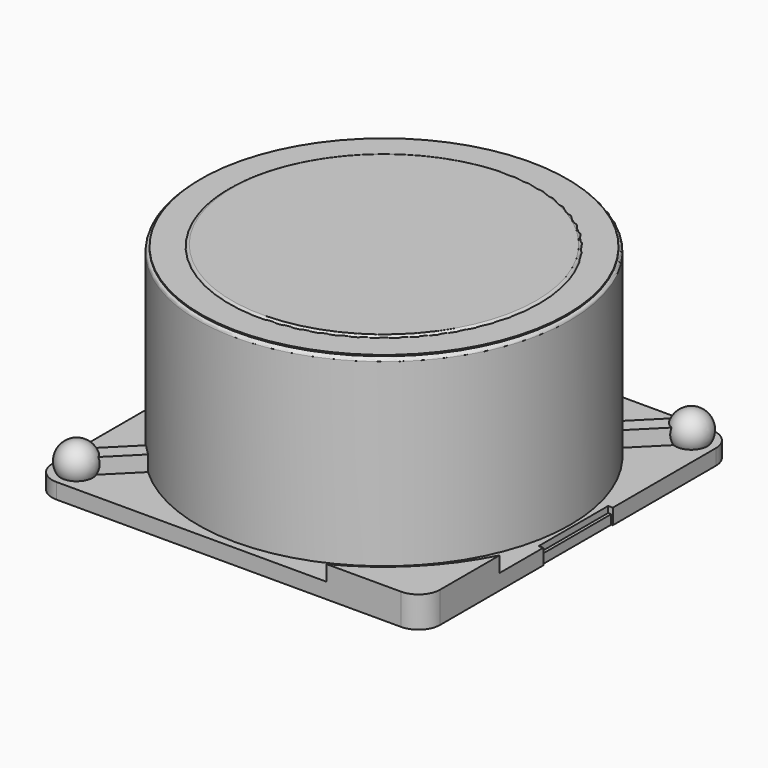
from build123d import *

# Parameters (mm, degrees)
BOX003_W               = 15.5
BOX003_H               = 0.5
BOX003_DEPTH           = 0.5
BOX003_PLACEMENT_ANGLE = 45
BOX005_W               = 0.9
BOX005_H               = 2.8
BOX005_DEPTH           = 0.3
BOX007_W               = 0.9
BOX007_H               = 2.8
BOX007_DEPTH           = 0.3
CYLINDER_R             = 6
CYLINDER_DEPTH         = 6.4
FILLET_R               = 0.1
CYLINDER001_R          = 5
CYLINDER001_DEPTH      = 6.5
FILLET001_R            = 0.1
CYLINDER004_R          = 5.9
CYLINDER004_DEPTH      = 0.3
BOX006_W               = 0.2
BOX006_H               = 2.8
BOX006_DEPTH           = 1
BOX004_W               = 0.2
BOX004_H               = 2.8
BOX004_DEPTH           = 1
BOX002_W               = 23
BOX002_H               = 6
BOX002_DEPTH           = 2
BOX002_PLACEMENT_ANGLE = 45
BOX001_W               = 15
BOX001_H               = 10
BOX001_DEPTH           = 5
BOX001_PLACEMENT_ANGLE = 45
CYLINDER003_R          = 6.5
CYLINDER003_DEPTH      = 2.4
BOX_W                  = 15
BOX_H                  = 7
BOX_DEPTH              = 5
BOX_PLACEMENT_ANGLE    = 45
CYLINDER002_R          = 7
CYLINDER002_DEPTH      = 2.4
PAD_DEPTH              = 1


with BuildPart() as obj1:
    # Sphere → Sphere (revolve)
    with BuildSketch(Plane(origin=(5.5, 5.5, 0.8), x_dir=(1, 0, 0), z_dir=(0, -1, 0))):
        with BuildLine():
            ThreePointArc((0, -0.6), (0.6, 0), (0, 0.6))
            Line((0, 0.6), (0, -0.6))
        make_face()
    revolve(axis=Axis((5.5, 5.5, 0.8), (0, 0, 1)))


with BuildPart() as obj2:
    # Sphere001 → Sphere001 (revolve)
    with BuildSketch(Plane(origin=(-5.5, -5.5, 0.8), x_dir=(1, 0, 0), z_dir=(0, -1, 0))):
        with BuildLine():
            ThreePointArc((0, -0.6), (0.6, 0), (0, 0.6))
            Line((0, 0.6), (0, -0.6))
        make_face()
    revolve(axis=Axis((-5.5, -5.5, 0.8), (0, 0, 1)))


with BuildPart() as kub003:
    # Box003 → Box003 (new body)
    with BuildSketch(Plane.XY):
        with Locations((7.75, 0.25)):
            Rectangle(BOX003_W, BOX003_H)
    extrude(amount=BOX003_DEPTH)


with BuildPart() as kub003_1:
    # Box003 placement: moved
    add(kub003.part.moved(Location((-5.2, -5.5, 0.5))).rotate(Axis((-5.2, -5.5, 0.5), (0, 0, 1)), BOX003_PLACEMENT_ANGLE))


with BuildPart() as kub005:
    # Box005 → Box005 (new body)
    with BuildSketch(Plane(origin=(5.3, -1.4, 0), x_dir=(1, 0, 0), z_dir=(0, 0, 1))):
        with Locations((0.45, 1.4)):
            Rectangle(BOX005_W, BOX005_H)
    extrude(amount=BOX005_DEPTH)


with BuildPart() as kub007:
    # Box007 → Box007 (new body)
    with BuildSketch(Plane(origin=(-6.2, -1.4, 0), x_dir=(1, 0, 0), z_dir=(0, 0, 1))):
        with Locations((0.45, 1.4)):
            Rectangle(BOX007_W, BOX007_H)
    extrude(amount=BOX007_DEPTH)


with BuildPart() as fillet_body:
    # Cylinder → Cylinder (new body)
    with BuildSketch(Plane.XY):
        Circle(CYLINDER_R)
    extrude(amount=CYLINDER_DEPTH)

    # Fillet
    fillet_edges = [fillet_body.edges().sort_by_distance(p)[0] for p in [
        (-6, 0, 6.4),
    ]]
    fillet(fillet_edges, radius=FILLET_R)


with BuildPart() as fillet001:
    # Cylinder001 → Cylinder001 (new body)
    with BuildSketch(Plane.XY):
        Circle(CYLINDER001_R)
    extrude(amount=CYLINDER001_DEPTH)

    # Fillet001
    fillet001_edges = [fillet001.edges().sort_by_distance(p)[0] for p in [
        (-5, 0, 6.5),
    ]]
    fillet(fillet001_edges, radius=FILLET001_R)


with BuildPart() as cylinder004:
    # Cylinder004 → Cylinder004 (new body)
    with BuildSketch(Plane.XY.offset(6.14)):
        Circle(CYLINDER004_R)
    extrude(amount=CYLINDER004_DEPTH)


with BuildPart() as kub006:
    # Box006 → Box006 (new body)
    with BuildSketch(Plane(origin=(-6.3, -1.4, 0), x_dir=(1, 0, 0), z_dir=(0, 0, 1))):
        with Locations((0.1, 1.4)):
            Rectangle(BOX006_W, BOX006_H)
    extrude(amount=BOX006_DEPTH)


with BuildPart() as kub004:
    # Box004 → Box004 (new body)
    with BuildSketch(Plane(origin=(6.1, -1.4, 0), x_dir=(1, 0, 0), z_dir=(0, 0, 1))):
        with Locations((0.1, 1.4)):
            Rectangle(BOX004_W, BOX004_H)
    extrude(amount=BOX004_DEPTH)


with BuildPart() as kub002:
    # Box002 → Box002 (new body)
    with BuildSketch(Plane.XY):
        with Locations((11.5, 3)):
            Rectangle(BOX002_W, BOX002_H)
    extrude(amount=BOX002_DEPTH)


with BuildPart() as kub002_1:
    # Box002 placement: moved
    add(kub002.part.moved(Location((-5, -9, 0.5))).rotate(Axis((-5, -9, 0.5), (0, 0, 1)), BOX002_PLACEMENT_ANGLE))


with BuildPart() as kub001:
    # Box001 → Box001 (new body)
    with BuildSketch(Plane.XY):
        with Locations((7.5, 5)):
            Rectangle(BOX001_W, BOX001_H)
    extrude(amount=BOX001_DEPTH)


with BuildPart() as kub001_1:
    # Box001 placement: moved
    add(kub001.part.moved(Location((1.5, -10.5, 0))).rotate(Axis((1.5, -10.5, 0), (0, 0, 1)), BOX001_PLACEMENT_ANGLE))


with BuildPart() as cut001:
    # Cylinder003 → Cylinder003 (new body)
    with BuildSketch(Plane(origin=(-0.5, 0.5, 0.5), x_dir=(1, 0, 0), z_dir=(0, 0, 1))):
        Circle(CYLINDER003_R)
    extrude(amount=CYLINDER003_DEPTH)

    # Cut001: cut Kub001
    add(kub001_1.part, mode=Mode.SUBTRACT)


with BuildPart() as kub:
    # Box → Box (new body)
    with BuildSketch(Plane.XY):
        with Locations((7.5, 3.5)):
            Rectangle(BOX_W, BOX_H)
    extrude(amount=BOX_DEPTH)


with BuildPart() as kub_1:
    # Box placement: moved
    add(kub.part.moved(Location((-6, -2, 0))).rotate(Axis((-6, -2, 0), (0, 0, 1)), BOX_PLACEMENT_ANGLE))


with BuildPart() as cut:
    # Cylinder002 → Cylinder002 (new body)
    with BuildSketch(Plane.XY.offset(0.5)):
        Circle(CYLINDER002_R)
    extrude(amount=CYLINDER002_DEPTH)

    # Cut: cut Kub
    add(kub_1.part, mode=Mode.SUBTRACT)


with BuildPart() as cut006:
    # Sketch → Pad (new body)
    with BuildSketch(Plane.XY):
        with BuildLine():
            Line((-6.25, -5.55), (-6.25, 5.35))
            Line((-6.25, 5.35), (-5.35, 5.35))
            Line((-5.35, 5.35), (-5.35, 6.25))
            Line((-5.35, 6.25), (5.55, 6.25))
            ThreePointArc((6.25, 5.55), (6.044975, 6.044975), (5.55, 6.25))
            Line((6.25, -5.55), (6.25, 5.55))
            ThreePointArc((5.55, -6.25), (6.044975, -6.044975), (6.25, -5.55))
            Line((-5.55, -6.25), (5.55, -6.25))
            ThreePointArc((-6.25, -5.55), (-6.044975, -6.044975), (-5.55, -6.25))
        make_face()
    extrude(amount=PAD_DEPTH)

    # Cut002: cut Cut
    add(cut.part, mode=Mode.SUBTRACT)

    # Cut003: cut Cut001
    add(cut001.part, mode=Mode.SUBTRACT)

    # Cut004: cut Kub002
    add(kub002_1.part, mode=Mode.SUBTRACT)

    # Cut005: cut Kub004
    add(kub004.part, mode=Mode.SUBTRACT)

    # Cut006: cut Kub006
    add(kub006.part, mode=Mode.SUBTRACT)


solid = Compound([obj1.part, obj2.part, kub003_1.part, kub005.part, kub007.part, fillet_body.part, fillet001.part, cylinder004.part, cut006.part])
